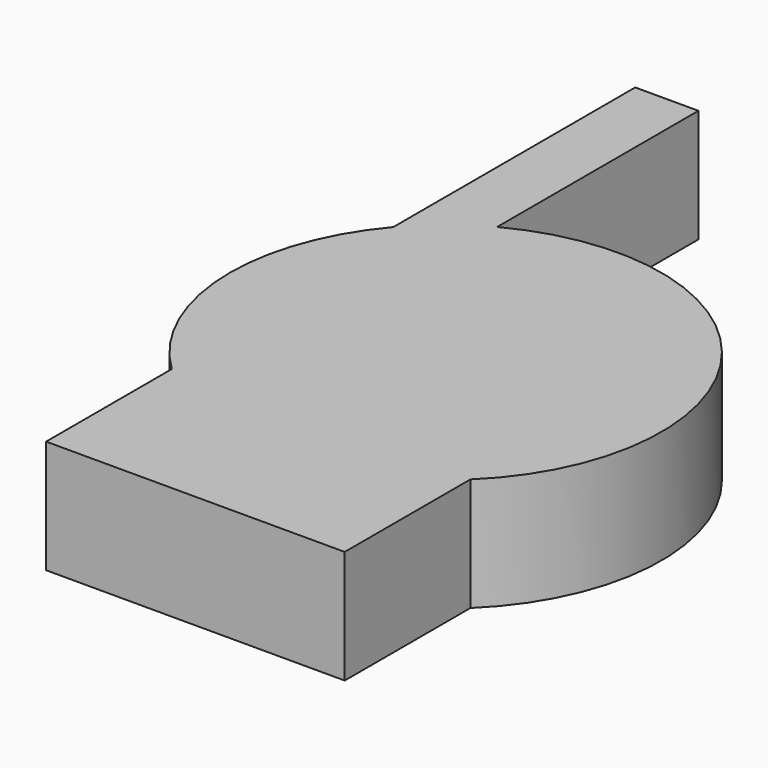
from build123d import *

# Parameters (mm, degrees)
F1_DEPTH = 21


with BuildPart() as f1:
    # F0 (on Top) → F1 (new body)
    with BuildSketch(Plane.XY):
        with BuildLine():
            Line((27.686694, -58), (27.686694, -28.869482))
            ThreePointArc((27.686694, -28.869482), (32.41631, 23.434651), (-18.733542, 35.341964))
            Line((-18.733542, 35.341964), (-18.733542, 82))
            Line((-18.733542, 82), (-30.454562, 82))
            Line((-30.454562, 82), (-30.454562, 25.932984))
            ThreePointArc((-30.454562, 25.932984), (-39.94908, -2.017679), (-27.686694, -28.869482))
            Line((-27.686694, -28.869482), (-27.686694, -58))
            Line((-27.686694, -58), (27.686694, -58))
        make_face()
    extrude(amount=F1_DEPTH)


solid = f1.part
